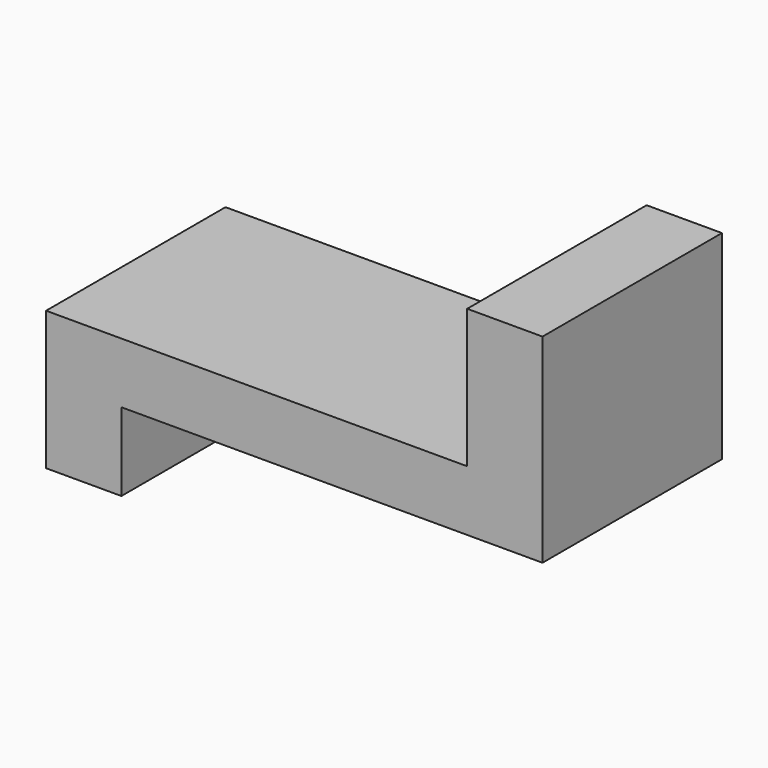
from build123d import *

# Parameters (mm, degrees)
F0_W     = 147.32
F0_H     = 66.548
F1_DEPTH = 82.296
F2_W     = 66.548
F2_H     = 23.203082
F3_DEPTH = 124.968
F4_W     = 66.548
F4_H     = 41.148
F5_DEPTH = 124.968


with BuildPart() as f1:
    # F0 (on Top) → F1 (new body)
    with BuildSketch(Plane.XY):
        with Locations((-33.647868, -0.571987)):
            Rectangle(F0_W, F0_H)
    extrude(amount=F1_DEPTH)

    # F2 (on face) → F3 (cut)
    with BuildSketch(Plane.YZ.offset(40.012132)):
        with Locations((-0.571987, 11.601541)):
            Rectangle(F2_W, F2_H)
    extrude(amount=-F3_DEPTH, mode=Mode.SUBTRACT)

    # F4 (on face) → F5 (cut)
    with BuildSketch(Plane(origin=(-107.307868, 0, 0), x_dir=(0, -1, 0), z_dir=(-1, 0, 0))):
        with Locations((0.571987, 61.722)):
            Rectangle(F4_W, F4_H)
    extrude(amount=-F5_DEPTH, mode=Mode.SUBTRACT)


solid = f1.part
